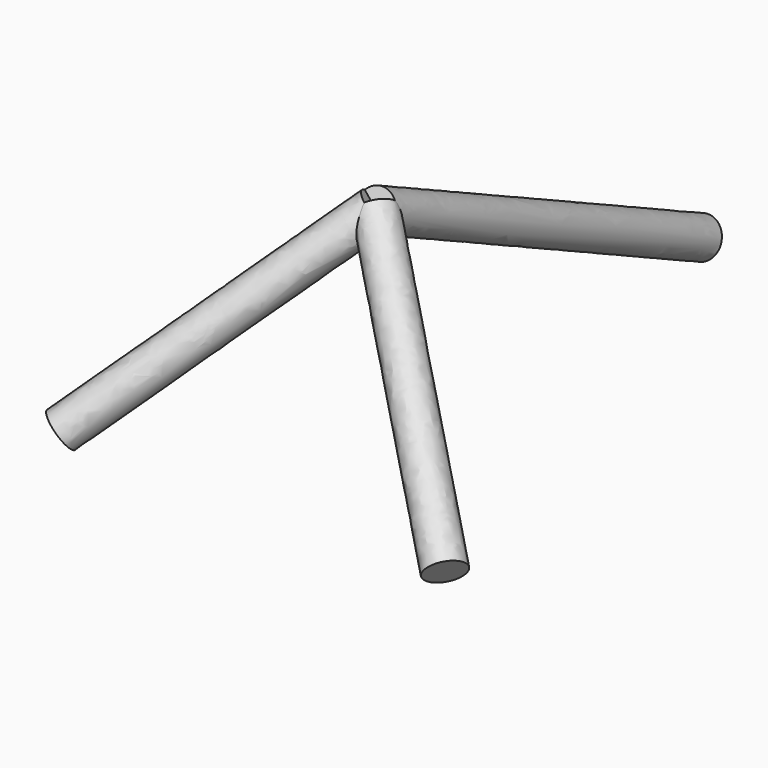
from build123d import *

# Parameters (mm, degrees)
F11_R = 50
F9_R  = 50
F7_R  = 50


with BuildPart() as f12:
    # F12: sweep along a path in F0
    with BuildLine(Plane.YZ) as f12_path:
        Line((821.6486089239, 0), (-238.731501909, 494.4633662366))
    # F11 (on line) → F12 (sweep)
    with BuildSketch(Plane(origin=(0, 674.8970771282, -314.7096755313), x_dir=(1, 0, 0), z_dir=(0, -0.906307787, 0.4226182617))):
        with Locations((0, 347.2437068651)):
            Circle(F11_R)
    sweep(path=f12_path.line)

    # F13: sweep along a path in F5
    with BuildLine(Plane(origin=(0, -383.5690744088, 321.8526688674), x_dir=(-1, 0, 0), z_dir=(0, 0.7660444431, -0.6427876097))) as f13_path:
        Line((0, 225.3272625625), (-511.8506124884, -420.1488200306))
    # F9 (on line) → F13 (sweep)
    with BuildSketch(Plane(origin=(402.1513273357, -325.9822331019, -388.4904974211), x_dir=(0.3622354017, 0.8639063406, -0.3499304909), z_dir=(0.6213360681, -0.503652494, -0.6002296692))):
        with Locations((-379.2694666792, 355.6264254243)):
            Circle(F9_R)
    sweep(path=f13_path.line)

    # F14: sweep along a path in F3
    with BuildLine(Plane(origin=(0, -383.5690744088, 321.8526688674), x_dir=(-1, 0, 0), z_dir=(0, 0.7660444431, -0.6427876097))) as f14_path:
        Line((0, 225.3272625625), (488.1430269655, -420.1488200306))
    # F7 (on line) → F14 (sweep)
    with BuildSketch(Plane(origin=(-379.7376683339, -322.7633696737, -384.6544053665), x_dir=(0.7975998017, -0.3877211296, -0.4620680491), z_dir=(-0.6031869995, -0.51268727, -0.6109968959))):
        with Locations((-135.9144754082, 500.7138656956)):
            Circle(F7_R)
    sweep(path=f14_path.line)


solid = f12.part
